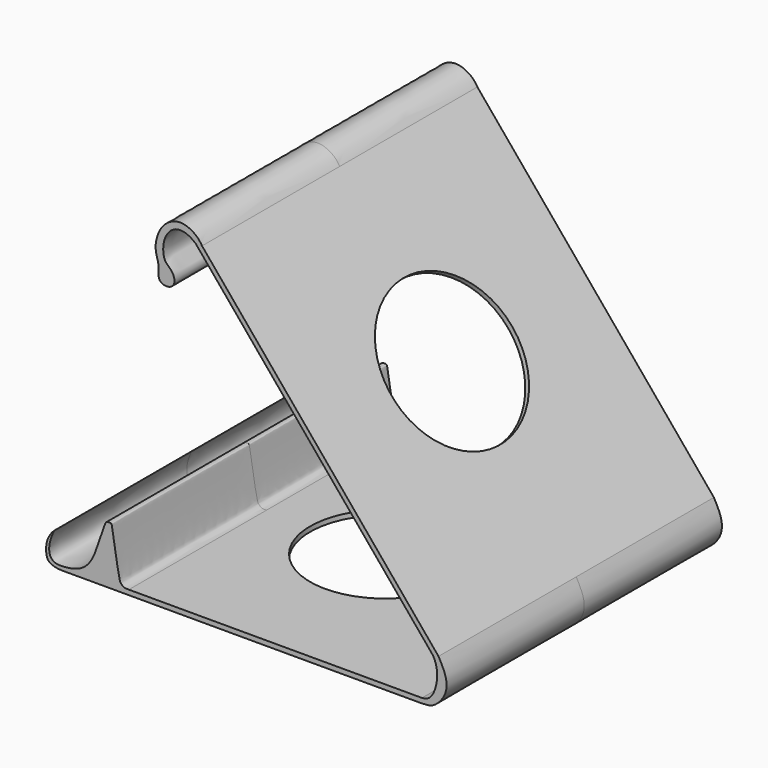
from build123d import *

# Parameters (mm, degrees)
F1_DEPTH = 40
F2_R     = 17.5
F3_DEPTH = 10
F5_R     = 17.5
F6_DEPTH = 10


with BuildPart() as f1:
    # F0 (on Front) → F1 (new body, symmetric)
    with BuildSketch(Plane.XZ):
        with BuildLine():
            add(Edge.make_bspline(
                [(-43.2916991413, -32.7611528337), (-44.4740597473, -32.7436870988), (-46.2165319651, -32.252076488), (-47.0525238129, -30.487470623), (-46.9075435069, -27.0735107931), (-45.0741611421, -25.2706818283)],
                knots=[0, 0, 0, 0, 0.3168160732, 0.556783631, 1, 1, 1, 1], degree=3))
            Line((-43.2916991413, -32.7611528337), (40.5583158135, -32.7611528337))
            add(Edge.make_bspline(
                [(40.5583158135, -32.7611528337), (41.9655124893, -32.6823848081), (43.3649520604, -32.5244012478), (46.2358905908, -29.3791253126), (46.3887688408, -25.5979647802), (45.0274009919, -23.1148552905), (44.350001961, -21.8600090593)],
                knots=[0, 0, 0, 0, 0.225024938, 0.478833045, 0.729010381, 1, 1, 1, 1], degree=3))
            Line((44.350001961, -21.8600090593), (-10.619071441, 44.2473404109))
            add(Edge.make_bspline(
                [(-12.1010337025, 44.2473404109), (-12.654658493, 44.6956969588), (-13.8641844817, 45.6314812025), (-17.0447764432, 46.204237272), (-19.8490859305, 43.0374762439), (-19.7070146452, 38.2955967767), (-17.7682495652, 37.2112124789), (-16.8737808772, 35.3913485847), (-17.1938383829, 33.736151042), (-18.8842866435, 33.0564749747), (-21.0877270279, 33.8926949975), (-20.3592856644, 37.1301118105), (-21.9921535552, 40.132818764), (-20.2855128697, 45.7660776385), (-16.451394535, 47.6505124845), (-13.8438336088, 47.1877203142), (-11.599480041, 45.7823848732), (-10.9329428338, 44.7402164909), (-10.619071441, 44.2473404109)],
                knots=[0, 0, 0, 0, 0.0568659718, 0.1211994624, 0.1958737853, 0.2749980186, 0.3293512346, 0.3818432828, 0.4281568687, 0.4767555063, 0.5283905985, 0.5923027798, 0.6626774486, 0.7515023307, 0.8271539991, 0.8879605205, 0.9488811745, 1, 1, 1, 1], degree=3))
            Line((-12.1010337025, 44.2473404109), (43.041460216, -22.0685694367))
            add(Edge.make_bspline(
                [(40.4919199646, -31.6248424351), (41.5528967903, -31.5828576152), (42.9916606975, -30.6855620241), (43.8775849699, -27.8010896922), (44.1662522685, -25.7710925851), (43.8388637366, -23.4016113904), (43.041460216, -22.0685694367)],
                knots=[0, 0, 0, 0, 0.239885033, 0.4903857055, 0.7052375769, 1, 1, 1, 1], degree=3))
            Line((40.4919199646, -31.6248424351), (-27.6353172958, -31.6248424351))
            add(Edge.make_bspline(
                [(-45.0741611421, -25.2706818283), (-46.0802981399, -27.4354002183), (-46.4835768858, -30.181173772), (-45.1420623531, -31.7516868751), (-43.2033303558, -31.9690204773), (-39.243072429, -31.5141200566), (-35.4445893698, -28.5589993371), (-33.3900352523, -19.4058663897), (-32.4614431464, -19.3636213853), (-31.6432691492, -19.3212250439), (-31.5348558762, -20.1269745319), (-29.9208088916, -30.5643408459), (-29.4063781594, -31.0218470783), (-28.7490390087, -31.6715848444), (-28.0742699103, -31.6155824545), (-27.6353172958, -31.6248424351)],
                knots=[0, 0, 0, 0, 0.1106145517, 0.1720248553, 0.2377840339, 0.3319617372, 0.441492433, 0.5854926921, 0.6242712643, 0.6629536547, 0.7047774055, 0.8630071011, 0.9062802123, 0.9482745881, 1, 1, 1, 1], degree=3))
        make_face()
    extrude(amount=F1_DEPTH, both=True)


with BuildPart() as f3:
    # F2 (on face) → F3 (new body)
    with BuildSketch(Plane(origin=(15.4741276626, 0, 12.8669272953), x_dir=(0, 1, 0), z_dir=(0.7689094675, 0, 0.6393576705))):
        Circle(F2_R)
    extrude(amount=-F3_DEPTH)


with BuildPart() as f1_1:
    add(f1.part)

    # F4: cut F3
    add(f3.part, mode=Mode.SUBTRACT)


with BuildPart() as f6:
    # F5 (on face) → F6 (new body)
    with BuildSketch(Plane(origin=(0, 0, -32.7611528337), x_dir=(1, 0, 0), z_dir=(0, 0, -1))):
        Circle(F5_R)
    extrude(amount=-F6_DEPTH)


with BuildPart() as f1_2:
    add(f1_1.part)

    # F7: cut F6
    add(f6.part, mode=Mode.SUBTRACT)


solid = f1_2.part
